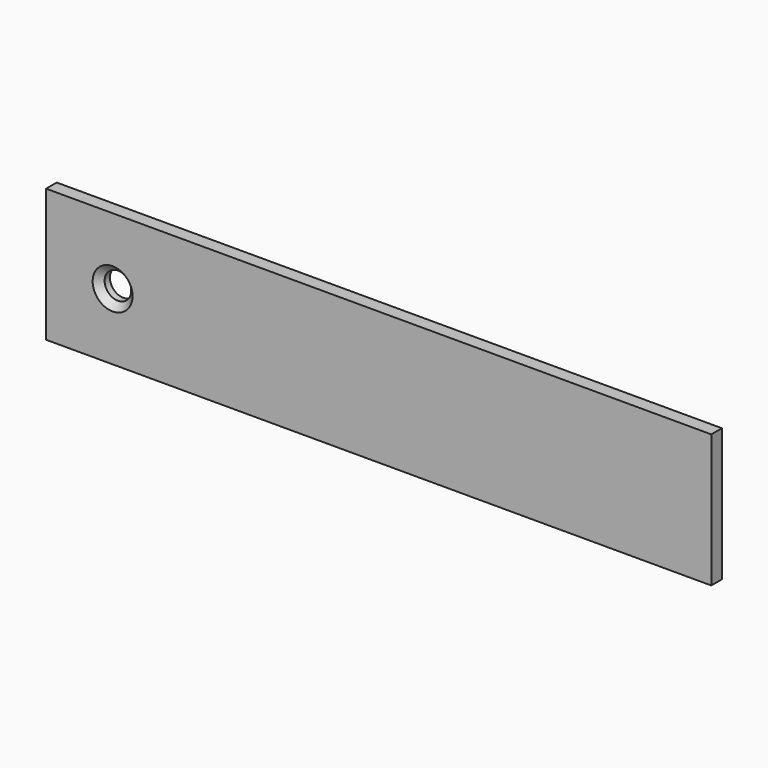
from build123d import *

# Parameters (mm, degrees)
F0_W           = 10
F0_H           = 100
F1_DEPTH       = 250
F3_D           = 20
F3_CSINK_D     = 30
F3_CSINK_ANGLE = 90


with BuildPart() as f1:
    # F0 (on Right) → F1 (new body, symmetric)
    with BuildSketch(Plane.YZ):
        Rectangle(F0_W, F0_H)
    extrude(amount=F1_DEPTH, both=True)

    # F3 (through all)
    with Locations(Plane.XZ.offset(5)):
        with Locations((-200, 0)):
            CounterSinkHole(F3_D / 2, F3_CSINK_D / 2, counter_sink_angle=F3_CSINK_ANGLE)


solid = f1.part
